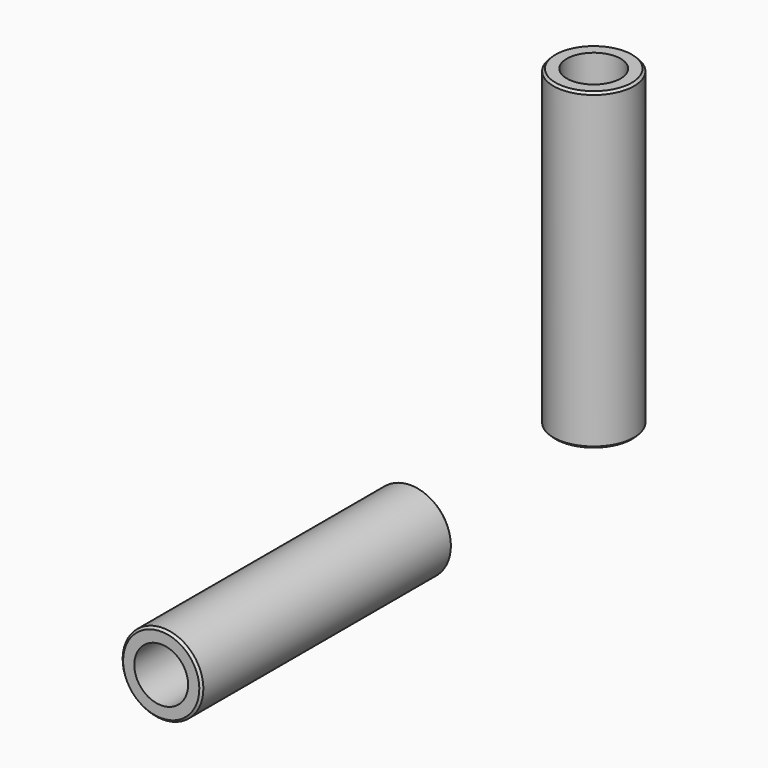
from build123d import *

# Parameters (mm, degrees)
F2_R     = 9
F2_R_2   = 6
F3_DEPTH = 70
F4_SIZE  = 0.5
F5_W     = 70
F5_H     = 3
F7_SIZE  = 0.5


with BuildPart() as f3:
    # F2 (on Top) → F3 (new body)
    with BuildSketch(Plane.XY):
        Circle(F2_R)
        Circle(F2_R_2, mode=Mode.SUBTRACT)
    extrude(amount=F3_DEPTH)

    # F4
    f4_edges = [f3.edges().sort_by_distance(p)[0] for p in [
        (-9, 0, 70),
        (-9, 0, 0),
    ]]
    chamfer(f4_edges, length=F4_SIZE)


with BuildPart() as f6:
    # F5 (on Right) → F6 (revolve)
    with BuildSketch(Plane.YZ):
        with Locations((-85.5741620872, -7.5)):
            Rectangle(F5_W, F5_H)
    revolve(axis=Axis((0, -85.5741620872, 0), (0, -1, 0)))

    # F7
    f7_edges = [f6.edges().sort_by_distance(p)[0] for p in [
        (0, -120.574162, 9),
        (0, -50.574162, 9),
    ]]
    chamfer(f7_edges, length=F7_SIZE)


solid = Compound([f3.part, f6.part])
